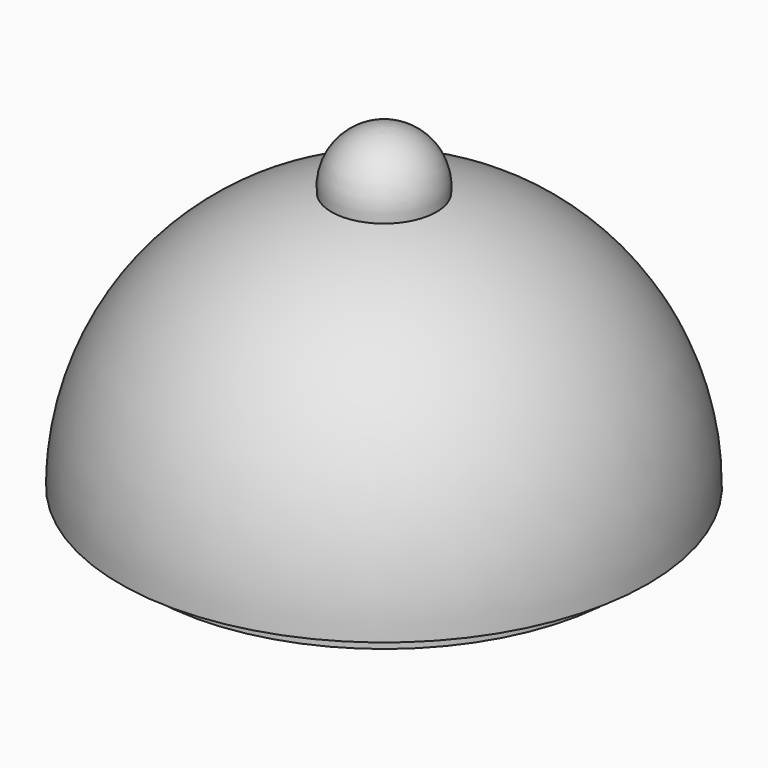
from build123d import *


with BuildPart() as f1:
    # F0 (on Front) → F1 (revolve)
    with BuildSketch(Plane.XZ):
        with BuildLine():
            ThreePointArc((0, 30), (-3.708099, 28.354102), (-4.974937, 24.5))
            ThreePointArc((-4.974937, 24.5), (-19.356826, 15.821292), (-25, 0))
            Line((-25, 0), (-22.2, 0))
            Line((-22.2, 0), (-22.2, -2))
            Line((-22.2, -2), (0, -2))
            Line((0, -2), (0, 0))
            Line((0, 0), (0, 25))
            Line((0, 25), (0, 30))
        make_face()
    revolve(axis=Axis((0, 0, 12.5), (0, 0, 1)))


solid = f1.part
